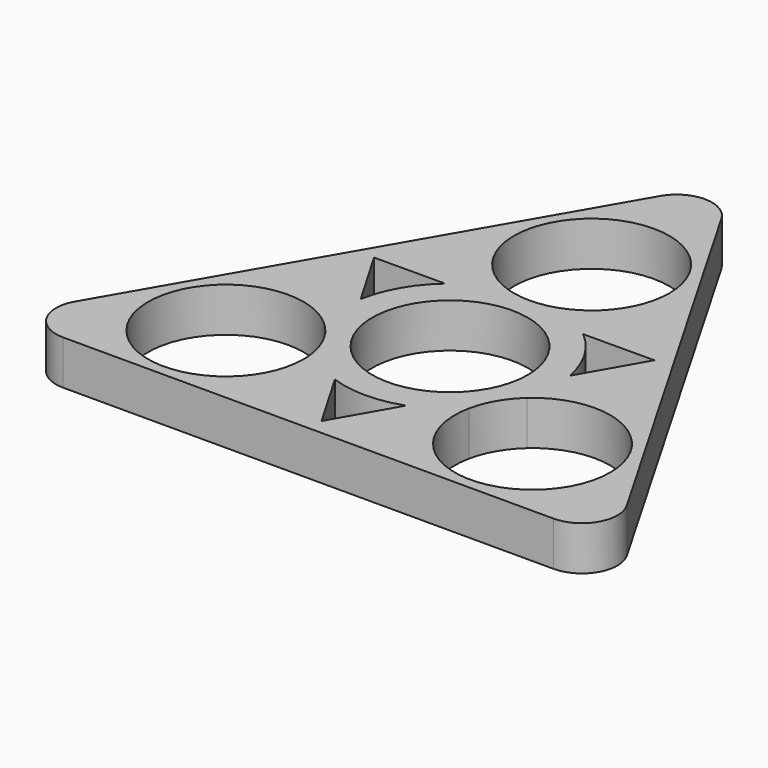
from build123d import *

# Parameters (mm, degrees)
F1_DEPTH = 6.35
F0_R     = 11.15
F2_DEPTH = 6.35
F3_R     = 5.08


with BuildPart() as f1:
    # F0 (on Top) → F1 (new body)
    with BuildSketch(Plane.XY):
        Polygon((43.994091, -25.4), (0, 50.8), (-43.994091, -25.4), align=None)
        with BuildLine():
            ThreePointArc((-3.478961, 14.806637), (-6.539575, 34.430861), (11.15, 25.4))
            ThreePointArc((11.15, 25.4), (9.030861, 18.860425), (3.478961, 14.806637))
            ThreePointArc((3.478961, 14.806637), (6.838188, 13.58598), (9.819816, 11.615115))
            Line((9.819816, 11.615115), (20.002501, 11.656133))
            Line((20.002501, 11.656133), (14.946682, 2.81716))
            ThreePointArc((14.946682, 2.81716), (15.143919, 1.414713), (15.209855, 0))
            ThreePointArc((15.209855, 0), (15.047122, -2.218966), (14.562405, -4.39045))
            ThreePointArc((14.562405, -4.39045), (26.548213, -2.521131), (33.147045, -12.7))
            ThreePointArc((33.147045, -12.7), (20.849038, -23.790743), (11.083444, -10.416187))
            ThreePointArc((11.083444, -10.416187), (8.34671, -12.715035), (5.149077, -14.311768))
            Line((5.149077, -14.311768), (0.093257, -23.150741))
            Line((0.093257, -23.150741), (-5.033608, -14.352786))
            ThreePointArc((-5.033608, -14.352786), (-8.295423, -12.748554), (-11.083444, -10.416187))
            ThreePointArc((-11.083444, -10.416187), (-10.906302, -11.551993), (-10.847045, -12.7))
            ThreePointArc((-10.847045, -12.7), (-32.175914, -17.251168), (-14.562405, -4.39045))
            ThreePointArc((-14.562405, -4.39045), (-15.184898, -0.870945), (-14.968893, 2.696653))
            Line((-14.968893, 2.696653), (-20.095758, 11.494607))
            Line((-20.095758, 11.494607), (-9.913073, 11.535626))
            ThreePointArc((-9.913073, 11.535626), (-6.89286, 13.558324), (-3.478961, 14.806637))
        make_face(mode=Mode.SUBTRACT)
        Polygon((43.994091, -25.4), (0, 50.8), (-43.994091, -25.4), align=None)
        with BuildLine():
            ThreePointArc((-3.478961, 14.806637), (-6.539575, 34.430861), (11.15, 25.4))
            ThreePointArc((11.15, 25.4), (9.030861, 18.860425), (3.478961, 14.806637))
            ThreePointArc((3.478961, 14.806637), (6.838188, 13.58598), (9.819816, 11.615115))
            Line((9.819816, 11.615115), (20.002501, 11.656133))
            Line((20.002501, 11.656133), (14.946682, 2.81716))
            ThreePointArc((14.946682, 2.81716), (15.143919, 1.414713), (15.209855, 0))
            ThreePointArc((15.209855, 0), (15.047122, -2.218966), (14.562405, -4.39045))
            ThreePointArc((14.562405, -4.39045), (26.548213, -2.521131), (33.147045, -12.7))
            ThreePointArc((33.147045, -12.7), (20.849038, -23.790743), (11.083444, -10.416187))
            ThreePointArc((11.083444, -10.416187), (8.34671, -12.715035), (5.149077, -14.311768))
            Line((5.149077, -14.311768), (0.093257, -23.150741))
            Line((0.093257, -23.150741), (-5.033608, -14.352786))
            ThreePointArc((-5.033608, -14.352786), (-8.295423, -12.748554), (-11.083444, -10.416187))
            ThreePointArc((-11.083444, -10.416187), (-10.906302, -11.551993), (-10.847045, -12.7))
            ThreePointArc((-10.847045, -12.7), (-32.175914, -17.251168), (-14.562405, -4.39045))
            ThreePointArc((-14.562405, -4.39045), (-15.184898, -0.870945), (-14.968893, 2.696653))
            Line((-14.968893, 2.696653), (-20.095758, 11.494607))
            Line((-20.095758, 11.494607), (-9.913073, 11.535626))
            ThreePointArc((-9.913073, 11.535626), (-6.89286, 13.558324), (-3.478961, 14.806637))
        make_face(mode=Mode.SUBTRACT)
        Polygon((43.994091, -25.4), (0, 50.8), (-43.994091, -25.4), align=None)
        with BuildLine():
            ThreePointArc((-3.478961, 14.806637), (-6.539575, 34.430861), (11.15, 25.4))
            ThreePointArc((11.15, 25.4), (9.030861, 18.860425), (3.478961, 14.806637))
            ThreePointArc((3.478961, 14.806637), (6.838188, 13.58598), (9.819816, 11.615115))
            Line((9.819816, 11.615115), (20.002501, 11.656133))
            Line((20.002501, 11.656133), (14.946682, 2.81716))
            ThreePointArc((14.946682, 2.81716), (15.143919, 1.414713), (15.209855, 0))
            ThreePointArc((15.209855, 0), (15.047122, -2.218966), (14.562405, -4.39045))
            ThreePointArc((14.562405, -4.39045), (26.548213, -2.521131), (33.147045, -12.7))
            ThreePointArc((33.147045, -12.7), (20.849038, -23.790743), (11.083444, -10.416187))
            ThreePointArc((11.083444, -10.416187), (8.34671, -12.715035), (5.149077, -14.311768))
            Line((5.149077, -14.311768), (0.093257, -23.150741))
            Line((0.093257, -23.150741), (-5.033608, -14.352786))
            ThreePointArc((-5.033608, -14.352786), (-8.295423, -12.748554), (-11.083444, -10.416187))
            ThreePointArc((-11.083444, -10.416187), (-10.906302, -11.551993), (-10.847045, -12.7))
            ThreePointArc((-10.847045, -12.7), (-32.175914, -17.251168), (-14.562405, -4.39045))
            ThreePointArc((-14.562405, -4.39045), (-15.184898, -0.870945), (-14.968893, 2.696653))
            Line((-14.968893, 2.696653), (-20.095758, 11.494607))
            Line((-20.095758, 11.494607), (-9.913073, 11.535626))
            ThreePointArc((-9.913073, 11.535626), (-6.89286, 13.558324), (-3.478961, 14.806637))
        make_face(mode=Mode.SUBTRACT)
    extrude(amount=F1_DEPTH)

    # F0 (on Top) → F2 (join)
    with BuildSketch(Plane.XY):
        with BuildLine():
            ThreePointArc((15.209855, 0), (15.143919, 1.414713), (14.946682, 2.81716))
            Line((14.946682, 2.81716), (5.149077, -14.311768))
            ThreePointArc((5.149077, -14.311768), (8.34671, -12.715035), (11.083444, -10.416187))
            ThreePointArc((11.083444, -10.416187), (12.340862, -7.125), (14.562405, -4.39045))
            ThreePointArc((14.562405, -4.39045), (15.047122, -2.218966), (15.209855, 0))
        make_face()
        with BuildLine():
            ThreePointArc((3.478961, 14.806637), (0, 14.25), (-3.478961, 14.806637))
            ThreePointArc((-3.478961, 14.806637), (-6.89286, 13.558324), (-9.913073, 11.535626))
            Line((-9.913073, 11.535626), (9.819816, 11.615115))
            ThreePointArc((9.819816, 11.615115), (6.838188, 13.58598), (3.478961, 14.806637))
        make_face()
        with BuildLine():
            Line((-5.033608, -14.352786), (-14.968893, 2.696653))
            ThreePointArc((-14.968893, 2.696653), (-15.184898, -0.870945), (-14.562405, -4.39045))
            ThreePointArc((-14.562405, -4.39045), (-12.340862, -7.125), (-11.083444, -10.416187))
            ThreePointArc((-11.083444, -10.416187), (-8.295423, -12.748554), (-5.033608, -14.352786))
        make_face()
        with BuildLine():
            Line((9.819816, 11.615115), (-9.913073, 11.535626))
            ThreePointArc((-9.913073, 11.535626), (-13.202648, 7.551805), (-14.968893, 2.696653))
            Line((-14.968893, 2.696653), (-5.033608, -14.352786))
            ThreePointArc((-5.033608, -14.352786), (0.061269, -15.209731), (5.149077, -14.311768))
            Line((5.149077, -14.311768), (14.946682, 2.81716))
            ThreePointArc((14.946682, 2.81716), (13.141379, 7.657926), (9.819816, 11.615115))
        make_face()
        Circle(F0_R, mode=Mode.SUBTRACT)
    extrude(amount=F2_DEPTH)

    # F3
    f3_edges = [f1.edges().sort_by_distance(p)[0] for p in [
        (0, 50.8, 3.175),
        (43.994091, -25.4, 3.175),
        (-43.994091, -25.4, 3.175),
    ]]
    fillet(f3_edges, radius=F3_R)


solid = f1.part
